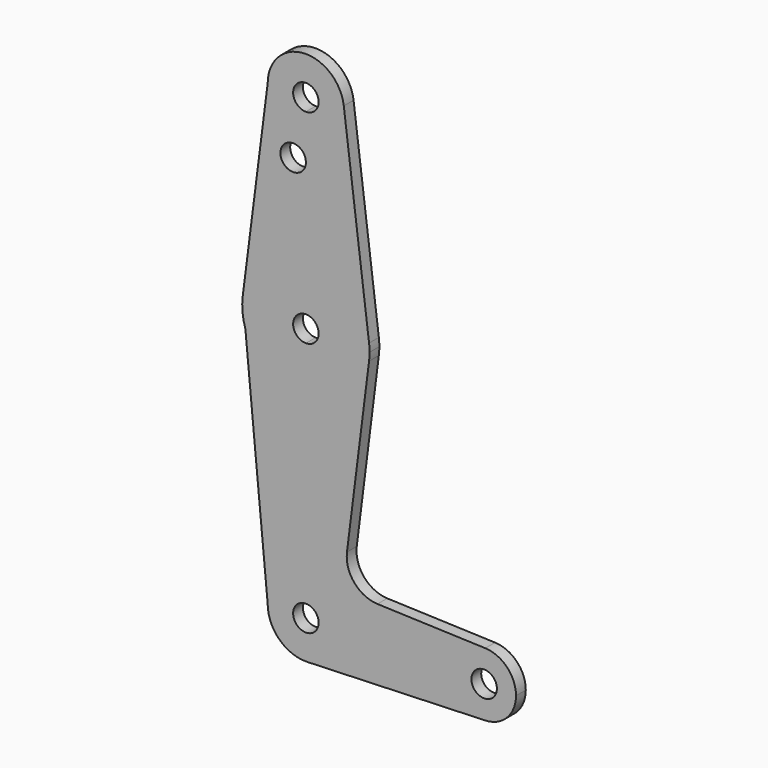
from build123d import *

# Parameters (mm, degrees)
F0_R     = 3.175
F1_DEPTH = 3.048


with BuildPart() as f1:
    # F0 (on Front) → F1 (new body)
    with BuildSketch(Plane.XZ):
        with BuildLine():
            ThreePointArc((15.7504882737, 61.515625), (15.8438414904, 62.5058612634), (15.875, 63.5))
            ThreePointArc((15.875, 63.5), (15.8438414904, 64.4941387366), (15.7504882737, 65.484375))
            ThreePointArc((15.7504882737, 65.484375), (10.5003255158, 75.40625), (0, 79.375))
            Line((0, 79.375), (0, 66.675))
            ThreePointArc((0, 66.675), (2.2450640303, 65.7450640303), (3.175, 63.5))
            ThreePointArc((3.175, 63.5), (2.2450640303, 61.2549359697), (0, 60.325))
            Line((0, 60.325), (0, 47.625))
            ThreePointArc((0, 47.625), (10.5003255158, 51.59375), (15.7504882737, 61.515625))
        make_face()
        with BuildLine():
            ThreePointArc((0, 79.375), (10.5003255158, 75.40625), (15.7504882737, 65.484375))
            Line((15.7504882737, 65.484375), (9.4502929642, 115.490625))
            ThreePointArc((9.4502929642, 115.490625), (9.5063048942, 114.896483242), (9.525, 114.3))
            ThreePointArc((9.525, 114.3), (6.7351920908, 107.5648079092), (0, 104.775))
            Line((0, 104.775), (0, 100.0252))
            Line((0, 100.0252), (0, 79.375))
        make_face()
        with BuildLine():
            Line((10.2468749586, 17.8320485683), (15.7504882737, 61.515625))
            ThreePointArc((15.7504882737, 61.515625), (10.5003255158, 51.59375), (0, 47.625))
            Line((0, 47.625), (0, 9.525))
            ThreePointArc((0, 9.525), (6.7351920908, 6.7351920908), (9.525, 0))
            Line((9.525, 0), (36.5125, 0))
            ThreePointArc((36.5125, 0), (38.9384772185, 5.7120069047), (44.7334821429, 7.9324362036))
            Line((44.7334821429, 7.9324362036), (17.8507837718, 8.8931454668))
            ThreePointArc((17.8507837718, 8.8931454668), (12.0791026517, 11.687042182), (10.2468749586, 17.8320485683))
        make_face()
        with BuildLine():
            Line((0, 66.675), (0, 79.375))
            ThreePointArc((0, 79.375), (-10.4912828548, 75.4142187767), (-15.7474569047, 65.5082893304))
            Line((-15.7474569047, 65.5082893304), (-15.0877196672, 58.5627598555))
            ThreePointArc((-15.0877196672, 58.5627598555), (-9.3176428807, 50.6470954198), (0, 47.625))
            Line((0, 47.625), (0, 60.325))
            ThreePointArc((0, 60.325), (-3.175, 63.5), (0, 66.675))
        make_face()
        with BuildLine():
            ThreePointArc((-15.7474569047, 65.5082893304), (-10.4912828548, 75.4142187767), (0, 79.375))
            Line((0, 79.375), (0, 100.0252))
            Line((0, 100.0252), (0, 104.775))
            ThreePointArc((0, 104.775), (-6.7351920908, 107.5648079092), (-9.525, 114.3))
            Line((-9.525, 114.3), (-15.7474569047, 65.5082893304))
        make_face()
        with Locations((-3.175, 100.0252)):
            Circle(F0_R, mode=Mode.SUBTRACT)
        with BuildLine():
            ThreePointArc((9.525, 114.3), (9.5063048942, 114.896483242), (9.4502929642, 115.490625))
            ThreePointArc((9.4502929642, 115.490625), (-0.596483242, 123.8063048942), (-9.525, 114.3))
            ThreePointArc((-9.525, 114.3), (-6.7351920908, 107.5648079092), (0, 104.775))
            ThreePointArc((0, 104.775), (6.7351920908, 107.5648079092), (9.525, 114.3))
        make_face()
        with BuildLine():
            ThreePointArc((3.175, 114.3), (2.2450640303, 112.0549359697), (0, 111.125))
            ThreePointArc((0, 111.125), (-2.2450640303, 116.5450640303), (3.175, 114.3))
        make_face(mode=Mode.SUBTRACT)
        with BuildLine():
            Line((0, 9.525), (0, 47.625))
            ThreePointArc((0, 47.625), (-9.3176428807, 50.6470954198), (-15.0877196672, 58.5627598555))
            Line((-15.0877196672, 58.5627598555), (-9.525, 0))
            ThreePointArc((-9.525, 0), (-6.7351920908, 6.7351920908), (0, 9.525))
        make_face()
        with BuildLine():
            Line((-15.0877196672, 58.5627598555), (-15.7474569047, 65.5082893304))
            ThreePointArc((-15.7474569047, 65.5082893304), (-15.8038641944, 61.9988332792), (-15.0877196672, 58.5627598555))
        make_face()
        with BuildLine():
            Line((0, 3.175), (0, 9.525))
            ThreePointArc((0, 9.525), (-6.7351920908, 6.7351920908), (-9.525, 0))
            ThreePointArc((-9.525, 0), (-6.6138272691, -6.8544083519), (0.3401787622, -9.5189234375))
            ThreePointArc((0.3401787622, -9.5189234375), (6.8544083519, -6.6138272691), (9.525, 0))
            Line((9.525, 0), (3.175, 0))
            ThreePointArc((3.175, 0), (-2.2450640303, -2.2450640303), (0, 3.175))
        make_face()
        with BuildLine():
            Line((36.5125, 0), (9.525, 0))
            ThreePointArc((9.525, 0), (6.8544083519, -6.6138272691), (0.3401787622, -9.5189234375))
            Line((0.3401787622, -9.5189234375), (44.7334821429, -7.9324362036))
            ThreePointArc((44.7334821429, -7.9324362036), (38.9384772185, -5.7120069047), (36.5125, 0))
        make_face()
        with BuildLine():
            ThreePointArc((52.3875, 0), (50.1620069047, 5.5115227815), (44.7334821429, 7.9324362036))
            ThreePointArc((44.7334821429, 7.9324362036), (38.9384772185, 5.7120069047), (36.5125, 0))
            ThreePointArc((36.5125, 0), (38.9384772185, -5.7120069047), (44.7334821429, -7.9324362036))
            ThreePointArc((44.7334821429, -7.9324362036), (50.1620069047, -5.5115227815), (52.3875, 0))
        make_face()
        with BuildLine():
            ThreePointArc((47.625, 0), (44.45, -3.175), (41.275, 0))
            ThreePointArc((41.275, 0), (44.45, 3.175), (47.625, 0))
        make_face(mode=Mode.SUBTRACT)
        with BuildLine():
            ThreePointArc((9.525, 0), (6.7351920908, 6.7351920908), (0, 9.525))
            Line((0, 9.525), (0, 3.175))
            ThreePointArc((0, 3.175), (2.2450640303, 2.2450640303), (3.175, 0))
            Line((3.175, 0), (9.525, 0))
        make_face()
    extrude(amount=F1_DEPTH)


solid = f1.part
